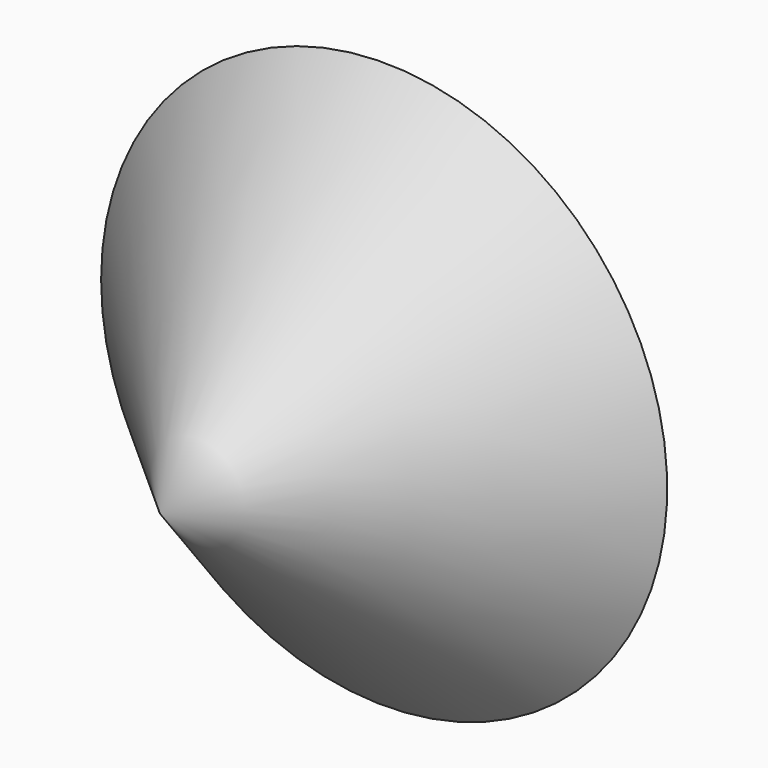
from build123d import *


with BuildPart() as f1:
    # F0 (on Top) → F1 (revolve)
    with BuildSketch(Plane.XY):
        Polygon((-25.692793, -44.52445), (-25.692793, 37.225351), (-70.655182, 0), align=None)
    revolve(axis=Axis((-25.692793, -3.64955, 0), (0, -1, 0)))


solid = f1.part
